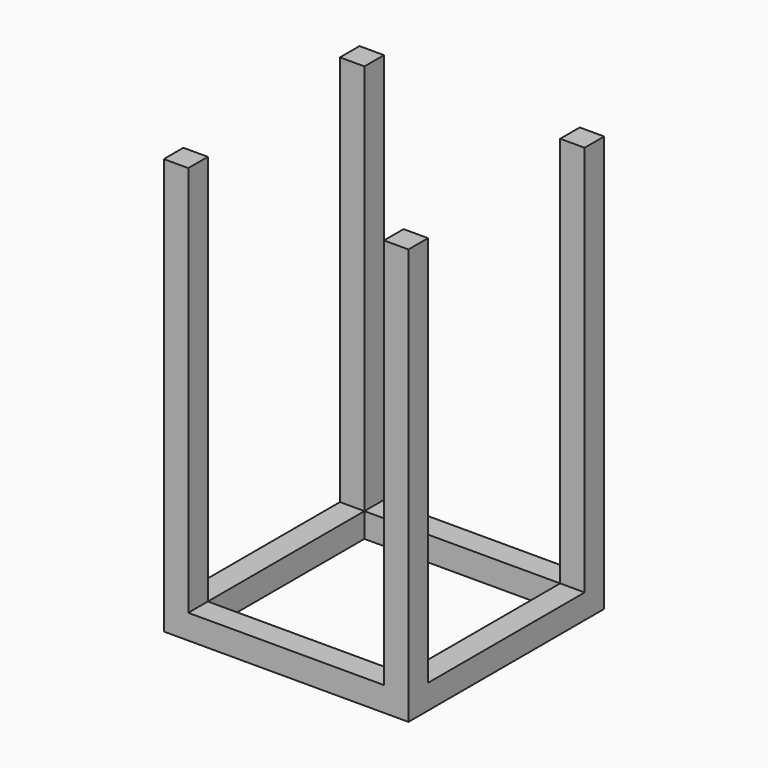
from build123d import *

# Parameters (mm, degrees)
F0_W     = 50
F0_H     = 50
F0_W_2   = 400
F0_H_2   = 400
F1_DEPTH = 50
F2_W     = 50
F2_H     = 50
F3_DEPTH = 800


with BuildPart() as f1:
    # F0 (on Top) → F1 (new body)
    with BuildSketch(Plane.XY):
        with Locations((25, 475)):
            Rectangle(F0_W, F0_H)
        with Locations((250, 475)):
            Rectangle(F0_W_2, F0_H)
        with Locations((475, 475)):
            Rectangle(F0_W, F0_H)
        with Locations((475, 250)):
            Rectangle(F0_W, F0_H_2)
        with Locations((475, 25)):
            Rectangle(F0_W, F0_H)
        with Locations((250, 25)):
            Rectangle(F0_W_2, F0_H)
        with Locations((25, 25)):
            Rectangle(F0_W, F0_H)
        with Locations((25, 250)):
            Rectangle(F0_W, F0_H_2)
    extrude(amount=F1_DEPTH)

    # F2 (on face) → F3 (join)
    with BuildSketch(Plane.XY.offset(50)):
        with Locations((25, 475)):
            Rectangle(F2_W, F2_H)
        with Locations((475, 475)):
            Rectangle(F2_W, F2_H)
        with Locations((475, 25)):
            Rectangle(F2_W, F2_H)
        with Locations((25, 25)):
            Rectangle(F2_W, F2_H)
    extrude(amount=F3_DEPTH)


solid = f1.part
